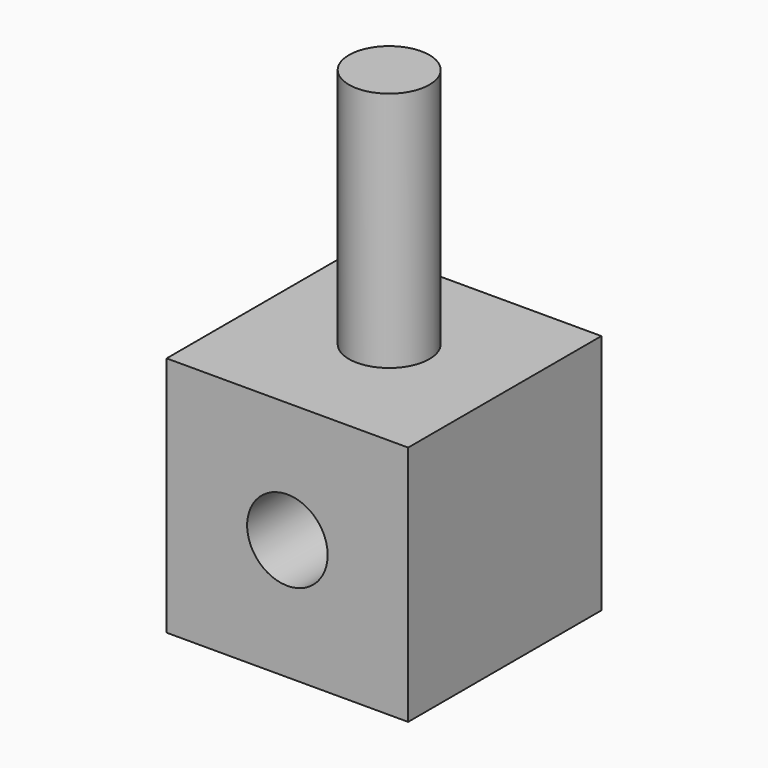
from build123d import *

# Parameters (mm, degrees)
F0_W     = 30
F0_H     = 30
F1_DEPTH = 30
F2_R     = 5
F3_DEPTH = 35
F4_R     = 5
F5_DEPTH = 30


with BuildPart() as f1:
    # F0 (on Front) → F1 (new body)
    with BuildSketch(Plane.XZ):
        Rectangle(F0_W, F0_H)
    extrude(amount=F1_DEPTH)

    # F2 (on face) → F3 (cut)
    with BuildSketch(Plane.XZ.offset(30)):
        Circle(F2_R)
    extrude(amount=-F3_DEPTH, mode=Mode.SUBTRACT)

    # F4 (on face) → F5 (join)
    with BuildSketch(Plane.XY.offset(15)):
        with Locations((0, -14.194067)):
            Circle(F4_R)
    extrude(amount=F5_DEPTH)


solid = f1.part
